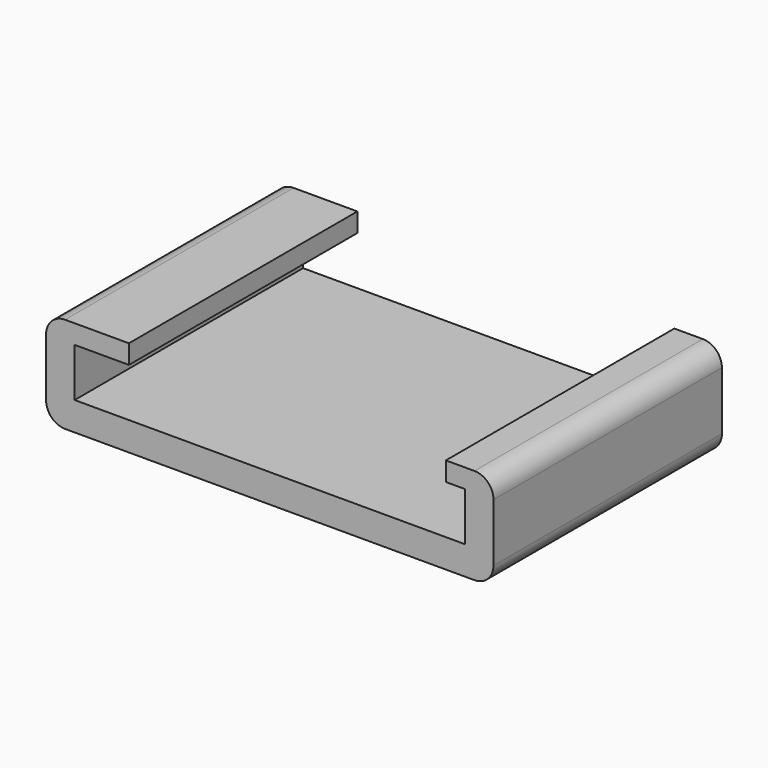
from build123d import *

# Parameters (mm, degrees)
F1_DEPTH = 30
F2_R     = 2


with BuildPart() as f1:
    # F0 (on Front) → F1 (new body)
    with BuildSketch(Plane.XZ):
        Polygon((-23, 0), (0, 0), (24, 0), (24, 10.1), (19, 10.1), (19, 8.1), (21, 8.1), (21, 3), (0, 3), (-20, 3), (-20, 8.1), (-14.3, 8.1), (-14.3, 10.1), (-23, 10.1), align=None)
    extrude(amount=F1_DEPTH)

    # F2
    f2_edges = [f1.edges().sort_by_distance(p)[0] for p in [
        (-23, -15, 10.1),
        (24, -15, 10.1),
        (-23, -15, 0),
        (24, -15, 0),
    ]]
    fillet(f2_edges, radius=F2_R)


solid = f1.part
